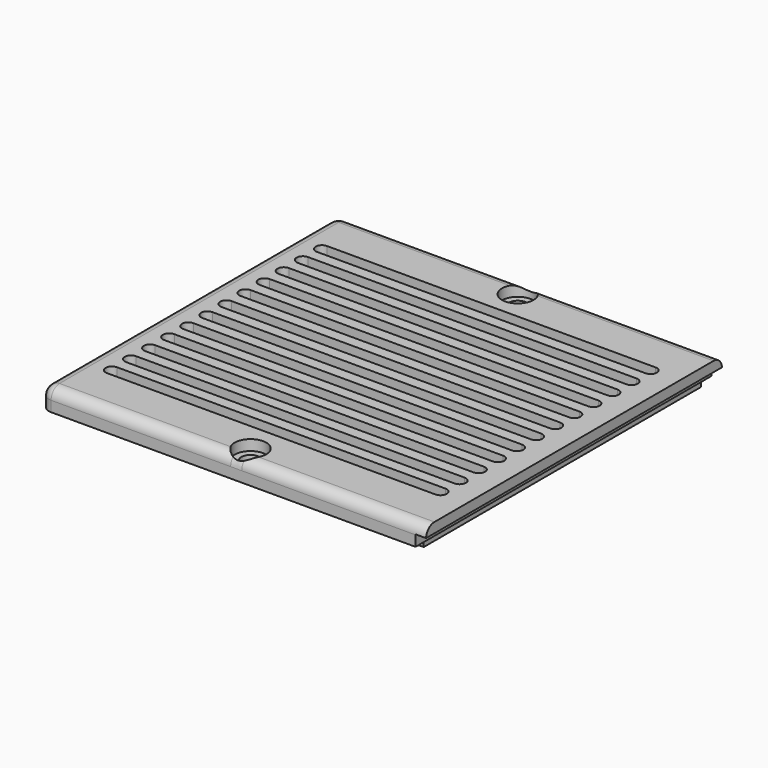
from build123d import *

# Parameters (mm, degrees)
SKETCH141_W          = 73.258
SKETCH141_H          = 70.3
SKETCH141_R          = 1.75
PAD050_DEPTH         = 4
FILLET012_R          = 2
SKETCH142_W          = 2
SKETCH142_H          = 70.3
POCKET059_DEPTH      = 2.1
SKETCH143_R          = 3
POCKET060_DEPTH      = 2.001
PAD051_DEPTH         = 1
POCKET061_DEPTH      = 1.001
POCKET061_DEPTH_BACK = 4.001


with BuildPart() as part:
    # Sketch141 → Pad050 (new body)
    with BuildSketch(Plane.XY):
        with Locations((-4.629, 0)):
            Rectangle(SKETCH141_W, SKETCH141_H)
        with Locations((-4.083, 31.75)):
            Circle(SKETCH141_R, mode=Mode.SUBTRACT)
        with Locations((-4.083, -31.75)):
            Circle(SKETCH141_R, mode=Mode.SUBTRACT)
    extrude(amount=PAD050_DEPTH)

    # Fillet012
    fillet012_edges = [part.edges().sort_by_distance(p)[0] for p in [
        (-4.629, 35.15, 4),
        (-41.258, 0, 4),
        (-41.258, 35.15, 2),
        (-41.258, -35.15, 2),
        (-4.629, -35.15, 4),
    ]]
    fillet(fillet012_edges, radius=FILLET012_R)

    # Sketch142 → Pocket059 (cut)
    with BuildSketch(Plane.XY):
        with Locations((31, 0)):
            Rectangle(SKETCH142_W, SKETCH142_H)
    extrude(amount=POCKET059_DEPTH, mode=Mode.SUBTRACT)

    # Sketch143 → Pocket060 (cut, through all)
    with BuildSketch(Plane.XY.offset(2)):
        with Locations((-4.083, 31.75)):
            Circle(SKETCH143_R)
        with Locations((-4.083, -31.75)):
            Circle(SKETCH143_R)
    extrude(amount=POCKET060_DEPTH, mode=Mode.SUBTRACT)

    # Sketch144 → Pad051 (join)
    with BuildSketch(Plane.XY):
        Polygon((-39.058, 32.95), (-9.108, 32.95), (-9.108, 28.15), (0.942, 28.15), (0.942, 32.95), (29.8, 32.95), (29.8, -32.95), (0.942, -32.95), (0.942, -28.15), (-9.108, -28.15), (-9.108, -32.95), (-39.058, -32.95), align=None)
    extrude(amount=-PAD051_DEPTH)

    # Sketch145 → Pocket061 (cut, two sides)
    with BuildSketch(Plane.XY) as pocket061_sk:
        with BuildLine():
            ThreePointArc((-35.858, 26.15), (-37.058, 24.95), (-35.858, 23.75))
            Line((-35.858, 23.75), (26.6, 23.75))
            ThreePointArc((26.6, 23.75), (27.8, 24.95), (26.6, 26.15))
            Line((-35.858, 26.15), (26.6, 26.15))
        make_face()
        with BuildLine():
            ThreePointArc((-35.858, 21.613636), (-37.058, 20.413636), (-35.858, 19.213636))
            Line((-35.858, 19.213636), (26.6, 19.213636))
            ThreePointArc((26.6, 19.213636), (27.8, 20.413636), (26.6, 21.613636))
            Line((-35.858, 21.613636), (26.6, 21.613636))
        make_face()
        with BuildLine():
            ThreePointArc((-35.858, 17.077273), (-37.058, 15.877273), (-35.858, 14.677273))
            Line((-35.858, 14.677273), (26.6, 14.677273))
            ThreePointArc((26.6, 14.677273), (27.8, 15.877273), (26.6, 17.077273))
            Line((-35.858, 17.077273), (26.6, 17.077273))
        make_face()
        with BuildLine():
            ThreePointArc((-35.858, 12.540909), (-37.058, 11.340909), (-35.858, 10.140909))
            Line((-35.858, 10.140909), (26.6, 10.140909))
            ThreePointArc((26.6, 10.140909), (27.8, 11.340909), (26.6, 12.540909))
            Line((-35.858, 12.540909), (26.6, 12.540909))
        make_face()
        with BuildLine():
            ThreePointArc((-35.858, 8.004545), (-37.058, 6.804545), (-35.858, 5.604545))
            Line((-35.858, 5.604545), (26.6, 5.604545))
            ThreePointArc((26.6, 5.604545), (27.8, 6.804545), (26.6, 8.004545))
            Line((-35.858, 8.004545), (26.6, 8.004545))
        make_face()
        with BuildLine():
            ThreePointArc((-35.858, 3.468182), (-37.058, 2.268182), (-35.858, 1.068182))
            Line((-35.858, 1.068182), (26.6, 1.068182))
            ThreePointArc((26.6, 1.068182), (27.8, 2.268182), (26.6, 3.468182))
            Line((-35.858, 3.468182), (26.6, 3.468182))
        make_face()
        with BuildLine():
            ThreePointArc((-35.858, -1.068182), (-37.058, -2.268182), (-35.858, -3.468182))
            Line((-35.858, -3.468182), (26.6, -3.468182))
            ThreePointArc((26.6, -3.468182), (27.8, -2.268182), (26.6, -1.068182))
            Line((-35.858, -1.068182), (26.6, -1.068182))
        make_face()
        with BuildLine():
            ThreePointArc((-35.858, -5.604545), (-37.058, -6.804545), (-35.858, -8.004545))
            Line((-35.858, -8.004545), (26.6, -8.004545))
            ThreePointArc((26.6, -8.004545), (27.8, -6.804545), (26.6, -5.604545))
            Line((-35.858, -5.604545), (26.6, -5.604545))
        make_face()
        with BuildLine():
            ThreePointArc((-35.858, -10.140909), (-37.058, -11.340909), (-35.858, -12.540909))
            Line((-35.858, -12.540909), (26.6, -12.540909))
            ThreePointArc((26.6, -12.540909), (27.8, -11.340909), (26.6, -10.140909))
            Line((-35.858, -10.140909), (26.6, -10.140909))
        make_face()
        with BuildLine():
            ThreePointArc((-35.858, -14.677273), (-37.058, -15.877273), (-35.858, -17.077273))
            Line((-35.858, -17.077273), (26.6, -17.077273))
            ThreePointArc((26.6, -17.077273), (27.8, -15.877273), (26.6, -14.677273))
            Line((-35.858, -14.677273), (26.6, -14.677273))
        make_face()
        with BuildLine():
            ThreePointArc((-35.858, -19.213636), (-37.058, -20.413636), (-35.858, -21.613636))
            Line((-35.858, -21.613636), (26.6, -21.613636))
            ThreePointArc((26.6, -21.613636), (27.8, -20.413636), (26.6, -19.213636))
            Line((-35.858, -19.213636), (26.6, -19.213636))
        make_face()
        with BuildLine():
            ThreePointArc((-35.858, -23.75), (-37.058, -24.95), (-35.858, -26.15))
            Line((-35.858, -26.15), (26.6, -26.15))
            ThreePointArc((26.6, -26.15), (27.8, -24.95), (26.6, -23.75))
            Line((-35.858, -23.75), (26.6, -23.75))
        make_face()
    extrude(amount=-POCKET061_DEPTH, mode=Mode.SUBTRACT)
    extrude(pocket061_sk.sketch, amount=POCKET061_DEPTH_BACK, mode=Mode.SUBTRACT)


solid = part.part
